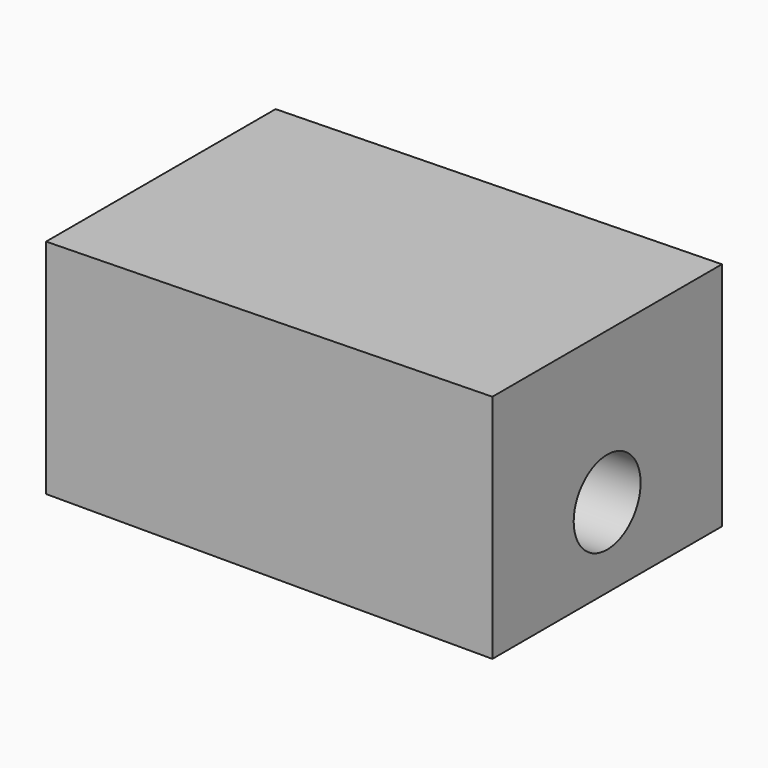
from build123d import *

# Parameters (mm, degrees)
F1_DEPTH = 57.15
F3_D     = 16.66748
F3_DEPTH = 58.42
F3_TIP   = 5.0074161752


with BuildPart() as f1:
    # F0 (on Front) → F1 (new body)
    with BuildSketch(Plane.XZ):
        Polygon((0, 44.2722), (0, 0), (88.9, 0), (88.9, 45.974), align=None)
    extrude(amount=F1_DEPTH)

    # F3
    with Locations(Plane.YZ.offset(88.9)):
        with Locations((-28.575, 15.875)):
            Hole(F3_D / 2, depth=F3_DEPTH)
            with Locations((0, 0, -(F3_DEPTH + F3_TIP / 2))):  # 118° drill point
                Cone(0, F3_D / 2, F3_TIP, mode=Mode.SUBTRACT)


solid = f1.part
